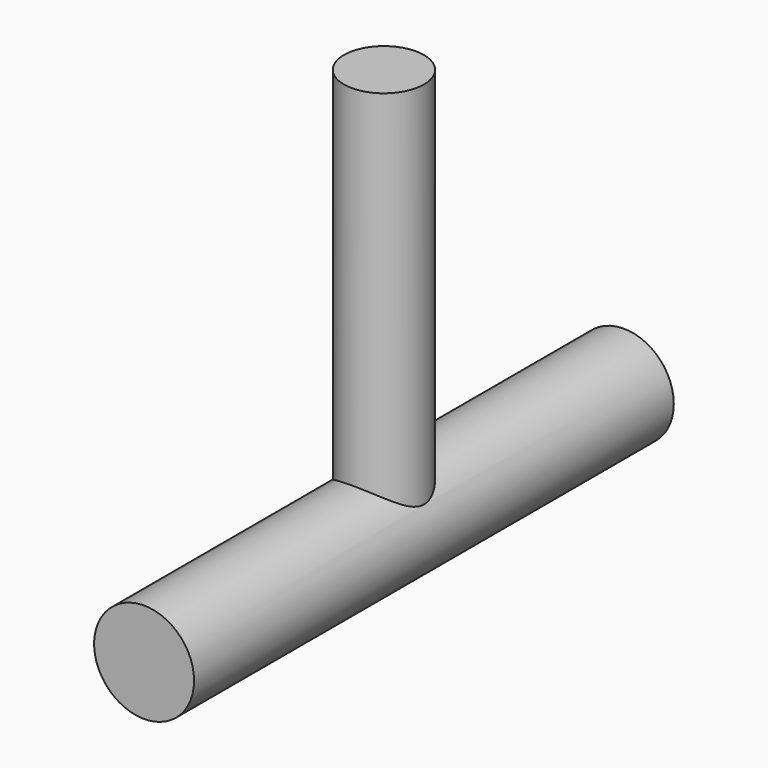
from build123d import *

# Parameters (mm, degrees)
F0_R     = 6.35
F1_DEPTH = 38.1
F2_R     = 5.08
F3_DEPTH = 50.8


with BuildPart() as f1:
    # F0 (on Front) → F1 (new body, symmetric)
    with BuildSketch(Plane.XZ):
        Circle(F0_R)
    extrude(amount=F1_DEPTH, both=True)

    # F2 (on Top) → F3 (join)
    with BuildSketch(Plane.XY):
        Circle(F2_R)
    extrude(amount=F3_DEPTH)


solid = f1.part
